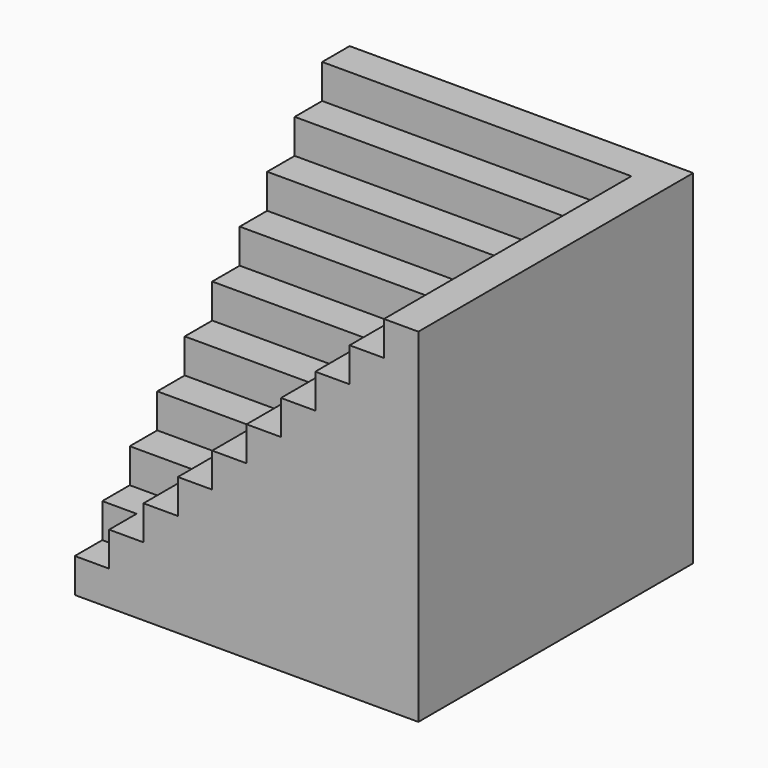
from build123d import *

# Parameters (mm, degrees)
F1_DEPTH  = 1000
F2_DEPTH  = 900
F3_DEPTH  = 800
F4_DEPTH  = 700
F5_DEPTH  = 600
F6_DEPTH  = 500
F7_DEPTH  = 400
F8_DEPTH  = 300
F9_DEPTH  = 200
F0_W      = 100
F0_H      = 100
F10_DEPTH = 100


with BuildPart() as f1:
    # F0 (on Top) → F1 (new body)
    with BuildSketch(Plane.XY):
        Polygon((900, 900), (900, 0), (1000, 0), (1000, 1000), (0, 1000), (0, 900), align=None)
    extrude(amount=F1_DEPTH)

    # F0 (on Top) → F2 (join)
    with BuildSketch(Plane.XY):
        Polygon((800, 800), (800, 0), (900, 0), (900, 900), (0, 900), (0, 800), align=None)
    extrude(amount=F2_DEPTH)

    # F0 (on Top) → F3 (join)
    with BuildSketch(Plane.XY):
        Polygon((700, 700), (700, 0), (800, 0), (800, 800), (0, 800), (0, 700), align=None)
    extrude(amount=F3_DEPTH)

    # F0 (on Top) → F4 (join)
    with BuildSketch(Plane.XY):
        Polygon((600, 600), (600, 0), (700, 0), (700, 700), (0, 700), (0, 600), align=None)
    extrude(amount=F4_DEPTH)

    # F0 (on Top) → F5 (join)
    with BuildSketch(Plane.XY):
        Polygon((500, 500), (500, 0), (600, 0), (600, 600), (0, 600), (0, 500), align=None)
    extrude(amount=F5_DEPTH)

    # F0 (on Top) → F6 (join)
    with BuildSketch(Plane.XY):
        Polygon((400, 400), (400, 0), (500, 0), (500, 500), (0, 500), (0, 400), align=None)
    extrude(amount=F6_DEPTH)

    # F0 (on Top) → F7 (join)
    with BuildSketch(Plane.XY):
        Polygon((300, 300), (300, 0), (400, 0), (400, 400), (0, 400), (0, 300), align=None)
    extrude(amount=F7_DEPTH)

    # F0 (on Top) → F8 (join)
    with BuildSketch(Plane.XY):
        Polygon((200, 200), (200, 0), (300, 0), (300, 300), (0, 300), (0, 200), align=None)
    extrude(amount=F8_DEPTH)

    # F0 (on Top) → F9 (join)
    with BuildSketch(Plane.XY):
        Polygon((100, 100), (100, 0), (200, 0), (200, 200), (0, 200), (0, 100), align=None)
    extrude(amount=F9_DEPTH)

    # F0 (on Top) → F10 (join)
    with BuildSketch(Plane.XY):
        with Locations((50, 50)):
            Rectangle(F0_W, F0_H)
    extrude(amount=F10_DEPTH)


solid = f1.part
